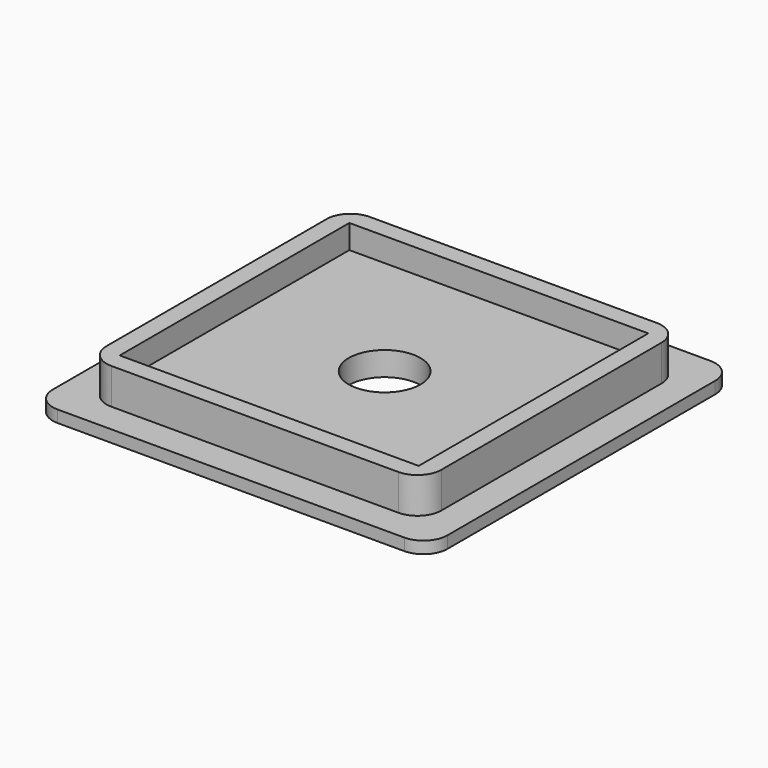
from build123d import *

# Parameters (mm, degrees)
F0_W     = 25
F0_H     = 24
F0_R     = 3
F1_DEPTH = 2
F2_DEPTH = 4
F3_DEPTH = 1


with BuildPart() as f1:
    # F0 (on Top) → F1 (new body)
    with BuildSketch(Plane.XY):
        with Locations((0, -0.065946)):
            Rectangle(F0_W, F0_H)
        Circle(F0_R, mode=Mode.SUBTRACT)
    extrude(amount=F1_DEPTH)

    # F0 (on Top) → F2 (join)
    with BuildSketch(Plane.XY):
        with BuildLine():
            Line((12, 13.434054), (-12, 13.434054))
            ThreePointArc((-12, 13.434054), (-13.414214, 12.848268), (-14, 11.434054))
            Line((-14, 11.434054), (-14, -11.565946))
            ThreePointArc((-14, -11.565946), (-13.414214, -12.98016), (-12, -13.565946))
            Line((-12, -13.565946), (12, -13.565946))
            ThreePointArc((12, -13.565946), (13.414214, -12.98016), (14, -11.565946))
            Line((14, -11.565946), (14, 11.434054))
            ThreePointArc((14, 11.434054), (13.414214, 12.848268), (12, 13.434054))
        make_face()
        with Locations((0, -0.065946)):
            Rectangle(F0_W, F0_H, mode=Mode.SUBTRACT)
    extrude(amount=F2_DEPTH)

    # F0 (on Top) → F3 (join)
    with BuildSketch(Plane.XY):
        with BuildLine():
            Line((14.5, 15.934054), (-14.5, 15.934054))
            ThreePointArc((-14.5, 15.934054), (-15.914214, 15.348268), (-16.5, 13.934054))
            Line((-16.5, 13.934054), (-16.5, -14.065946))
            ThreePointArc((-16.5, -14.065946), (-15.914214, -15.48016), (-14.5, -16.065946))
            Line((-14.5, -16.065946), (14.5, -16.065946))
            ThreePointArc((14.5, -16.065946), (15.914214, -15.48016), (16.5, -14.065946))
            Line((16.5, -14.065946), (16.5, 13.934054))
            ThreePointArc((16.5, 13.934054), (15.914214, 15.348268), (14.5, 15.934054))
        make_face()
        with BuildLine():
            ThreePointArc((-14, 11.434054), (-13.414214, 12.848268), (-12, 13.434054))
            Line((-12, 13.434054), (12, 13.434054))
            ThreePointArc((12, 13.434054), (13.414214, 12.848268), (14, 11.434054))
            Line((14, 11.434054), (14, -11.565946))
            ThreePointArc((14, -11.565946), (13.414214, -12.98016), (12, -13.565946))
            Line((12, -13.565946), (-12, -13.565946))
            ThreePointArc((-12, -13.565946), (-13.414214, -12.98016), (-14, -11.565946))
            Line((-14, -11.565946), (-14, 11.434054))
        make_face(mode=Mode.SUBTRACT)
    extrude(amount=F3_DEPTH)


solid = f1.part
